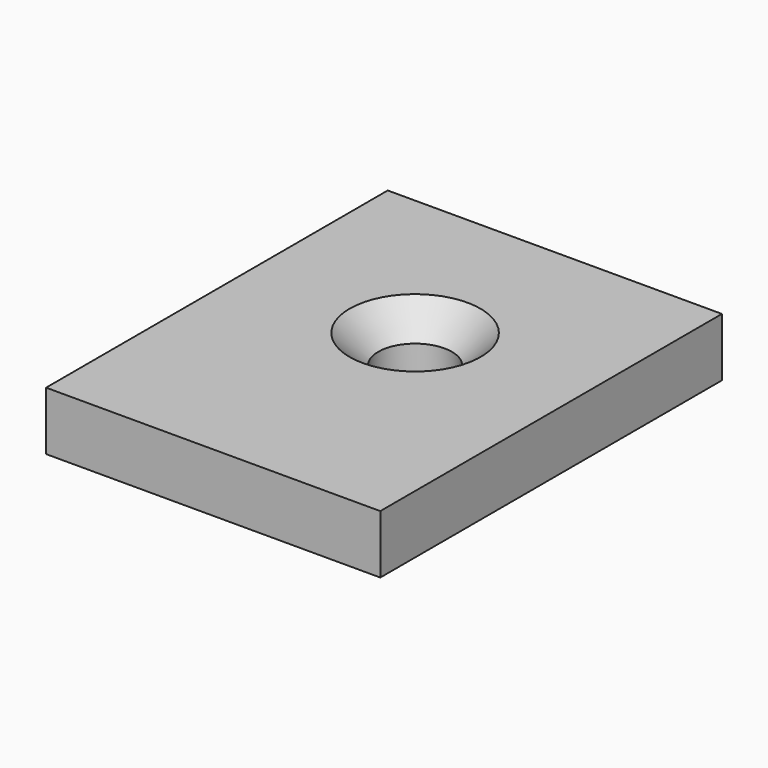
from build123d import *

# Parameters (mm, degrees)
F0_W           = 8.17
F0_H           = 10.44
F1_DEPTH       = 1.43
F3_D           = 1.8
F3_DEPTH       = 4
F3_CSINK_D     = 3.2
F3_CSINK_ANGLE = 90
F3_TIP         = 0.5407745571


with BuildPart() as f1:
    # F0 (on Top) → F1 (new body)
    with BuildSketch(Plane.XY):
        with Locations((4.085, 5.22)):
            Rectangle(F0_W, F0_H)
    extrude(amount=F1_DEPTH)

    # F3
    with Locations(Plane.XY.offset(1.43)):
        with Locations((4.085, 6.17)):
            CounterSinkHole(F3_D / 2, F3_CSINK_D / 2, depth=F3_DEPTH, counter_sink_angle=F3_CSINK_ANGLE)
            with Locations((0, 0, -(F3_DEPTH + F3_TIP / 2))):  # 118° drill point
                Cone(0, F3_D / 2, F3_TIP, mode=Mode.SUBTRACT)


solid = f1.part
